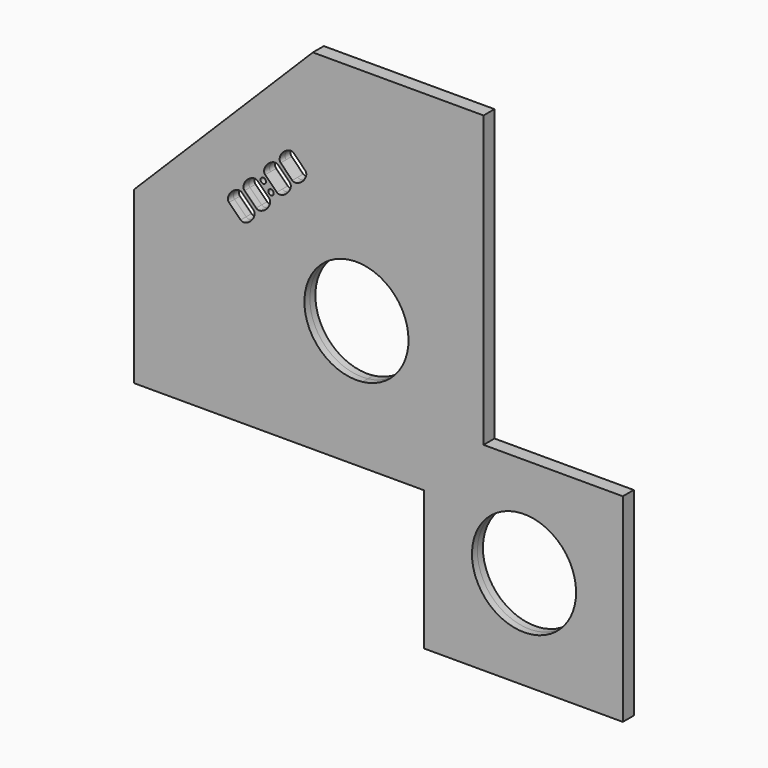
from build123d import *

# Parameters (mm, degrees)
F1_DEPTH = 7.5


with BuildPart() as f1:
    # F0 (on Front) → F1 (new body, symmetric)
    with BuildSketch(Plane.XZ):
        Polygon((-169.6966991411, 169.6966991411), (-267.5, 71.8933982822), (-267.5, -115), (-260, -115), (-260, 68.7867965644), (-164.3933982822, 164.3933982822), align=None)
        Polygon((-71.8933982822, 267.5), (-169.6966991411, 169.6966991411), (-164.3933982822, 164.3933982822), (-68.7867965644, 260), (115, 260), (115, 267.5), align=None)
        with BuildLine():
            Line((-68.7867965644, 260), (-164.3933982822, 164.3933982822))
            Line((-164.3933982822, 164.3933982822), (-128.3309524417, 128.3309524417))
            ThreePointArc((-128.3309524417, 128.3309524417), (-125.061581801, 128.9812706957), (-123.2096320981, 126.2096320981))
            ThreePointArc((-123.2096320981, 126.2096320981), (-123.4379935006, 125.061581801), (-124.0883117546, 124.0883117546))
            Line((-124.0883117546, 124.0883117546), (-119.8456710674, 119.8456710674))
            ThreePointArc((-119.8456710674, 119.8456710674), (-116.5763004268, 120.4959893214), (-114.7243507239, 117.7243507239))
            ThreePointArc((-114.7243507239, 117.7243507239), (-114.9527121264, 116.5763004268), (-115.6030303803, 115.6030303803))
            Line((-115.6030303803, 115.6030303803), (-64.4738274856, 64.4738274856))
            ThreePointArc((-64.4738274856, 64.4738274856), (-2.3557853132, 76.8298743111), (32.831259042, 24.168740958))
            ThreePointArc((32.831259042, 24.168740958), (32.738226427, 20.9134279091), (32.4594322685, 17.668741186))
            Line((32.4594322685, 17.668741186), (115, 17.668741186))
            Line((115, 17.668741186), (115, 260))
            Line((115, 260), (-68.7867965644, 260))
        make_face()
        with BuildLine():
            add(Edge.make_bspline(
                [(-111.3603896932, 119.8456710674), (-107.1177490061, 115.6030303803), (-100.0466811942, 122.6740981922), (-92.9756133824, 129.7451660041), (-97.2182540695, 133.9878066912)],
                knots=[0, 0, 0, 1.5707963268, 1.5707963268, 3.1415926536, 3.1415926536, 3.1415926536], degree=2, weights=[1, 0.7071067812, 1, 0.7071067812, 1]))
            Line((-111.3603896932, 119.8456710674), (-124.0883117546, 132.5735931288))
            add(Edge.make_bspline(
                [(-109.9461761308, 146.7157287525), (-114.188816818, 150.9583694397), (-121.2598846298, 143.8873016278), (-128.3309524417, 136.8162338159), (-124.0883117546, 132.5735931288)],
                knots=[0, 0, 0, 1.5707963268, 1.5707963268, 3.1415926536, 3.1415926536, 3.1415926536], degree=2, weights=[1, 0.7071067812, 1, 0.7071067812, 1]))
            Line((-109.9461761308, 146.7157287525), (-97.2182540695, 133.9878066912))
        make_face(mode=Mode.SUBTRACT)
        with BuildLine():
            Line((-94.3898269447, 136.8162338159), (-107.1177490061, 149.5441558773))
            add(Edge.make_bspline(
                [(-92.9756133824, 163.686291501), (-97.2182540695, 167.9289321881), (-104.2893218813, 160.8578643763), (-111.3603896932, 153.7867965644), (-107.1177490061, 149.5441558773)],
                knots=[3.1415926536, 3.1415926536, 3.1415926536, 4.7123889804, 4.7123889804, 6.2831853072, 6.2831853072, 6.2831853072], degree=2, weights=[1, 0.7071067812, 1, 0.7071067812, 1]))
            Line((-92.9756133824, 163.686291501), (-80.247691321, 150.9583694397))
            add(Edge.make_bspline(
                [(-94.3898269447, 136.8162338159), (-90.1471862576, 132.5735931288), (-83.0761184457, 139.6446609407), (-76.0050506339, 146.7157287525), (-80.247691321, 150.9583694397)],
                knots=[0, 0, 0, 1.5707963268, 1.5707963268, 3.1415926536, 3.1415926536, 3.1415926536], degree=2, weights=[1, 0.7071067812, 1, 0.7071067812, 1]))
        make_face(mode=Mode.SUBTRACT)
        with BuildLine():
            Line((-128.3309524417, 128.3309524417), (-164.3933982822, 164.3933982822))
            Line((-164.3933982822, 164.3933982822), (-260, 68.7867965644))
            Line((-260, 68.7867965644), (-260, -115))
            Line((-260, -115), (-17.668741186, -115))
            Line((-17.668741186, -115), (-17.668741186, -32.4594322685))
            ThreePointArc((-17.668741186, -32.4594322685), (-75.4981690113, -0.6161297442), (-64.4738274856, 64.4738274856))
            Line((-64.4738274856, 64.4738274856), (-115.6030303803, 115.6030303803))
            ThreePointArc((-115.6030303803, 115.6030303803), (-119.8456710674, 115.6030303803), (-119.8456710674, 119.8456710674))
            Line((-119.8456710674, 119.8456710674), (-124.0883117546, 124.0883117546))
            ThreePointArc((-124.0883117546, 124.0883117546), (-128.3309524417, 124.0883117546), (-128.3309524417, 128.3309524417))
        make_face()
        with BuildLine():
            add(Edge.make_bspline(
                [(-150.9583694397, 80.247691321), (-146.7157287525, 76.0050506339), (-139.6446609407, 83.0761184457)],
                knots=[0, 0, 0, 1.5707963268, 1.5707963268, 1.5707963268], degree=2, weights=[1, 0.7071067812, 1]))
            Line((-150.9583694397, 80.247691321), (-163.686291501, 92.9756133824))
            add(Edge.make_bspline(
                [(-160.8578643763, 104.2893218813), (-167.9289321881, 97.2182540695), (-163.686291501, 92.9756133824)],
                knots=[1.5707963268, 1.5707963268, 1.5707963268, 3.1415926536, 3.1415926536, 3.1415926536], degree=2, weights=[1, 0.7071067812, 1]))
            add(Edge.make_bspline(
                [(-149.5441558773, 107.1177490061), (-153.7867965644, 111.3603896932), (-160.8578643763, 104.2893218813)],
                knots=[0, 0, 0, 1.5707963268, 1.5707963268, 1.5707963268], degree=2, weights=[1, 0.7071067812, 1]))
            Line((-149.5441558773, 107.1177490061), (-136.8162338159, 94.3898269447))
            add(Edge.make_bspline(
                [(-139.6446609407, 83.0761184457), (-132.5735931288, 90.1471862576), (-136.8162338159, 94.3898269447)],
                knots=[1.5707963268, 1.5707963268, 1.5707963268, 3.1415926536, 3.1415926536, 3.1415926536], degree=2, weights=[1, 0.7071067812, 1]))
        make_face(mode=Mode.SUBTRACT)
        with BuildLine():
            add(Edge.make_bspline(
                [(-132.5735931288, 124.0883117546), (-136.8162338159, 128.3309524417), (-143.8873016278, 121.2598846298), (-150.9583694397, 114.188816818), (-146.7157287525, 109.9461761308)],
                knots=[3.1415926536, 3.1415926536, 3.1415926536, 4.7123889804, 4.7123889804, 6.2831853072, 6.2831853072, 6.2831853072], degree=2, weights=[1, 0.7071067812, 1, 0.7071067812, 1]))
            Line((-132.5735931288, 124.0883117546), (-119.8456710674, 111.3603896932))
            add(Edge.make_bspline(
                [(-133.9878066912, 97.2182540695), (-129.7451660041, 92.9756133824), (-122.6740981922, 100.0466811942), (-115.6030303803, 107.1177490061), (-119.8456710674, 111.3603896932)],
                knots=[0, 0, 0, 1.5707963268, 1.5707963268, 3.1415926536, 3.1415926536, 3.1415926536], degree=2, weights=[1, 0.7071067812, 1, 0.7071067812, 1]))
            Line((-133.9878066912, 97.2182540695), (-146.7157287525, 109.9461761308))
        make_face(mode=Mode.SUBTRACT)
        with BuildLine():
            Line((-17.668741186, -32.4594322685), (-17.668741186, -115))
            Line((-17.668741186, -115), (35, -115))
            Line((35, -115), (50, -115))
            Line((50, -115), (50, -130))
            Line((50, -130), (50, -260))
            Line((50, -260), (260, -260))
            Line((260, -260), (260, -50))
            Line((260, -50), (130, -50))
            Line((130, -50), (115, -50))
            Line((115, -50), (115, -35))
            Line((115, -35), (115, 17.668741186))
            Line((115, 17.668741186), (32.4594322685, 17.668741186))
            ThreePointArc((32.4594322685, 17.668741186), (16.1363455697, -16.1363455697), (-17.668741186, -32.4594322685))
        make_face()
        with BuildLine():
            ThreePointArc((216.3126624785, -159.3126624785), (211.9737958316, -181.1256181233), (199.6177490061, -199.6177490061))
            ThreePointArc((199.6177490061, -199.6177490061), (106.6515291253, -137.4997068336), (216.3126624785, -159.3126624785))
        make_face(mode=Mode.SUBTRACT)
        Polygon((260, -260), (50, -260), (50, -267.5), (267.5, -267.5), align=None)
        Polygon((260, -50), (260, -260), (267.5, -267.5), (267.5, -50), align=None)
    extrude(amount=F1_DEPTH, both=True)


solid = f1.part
